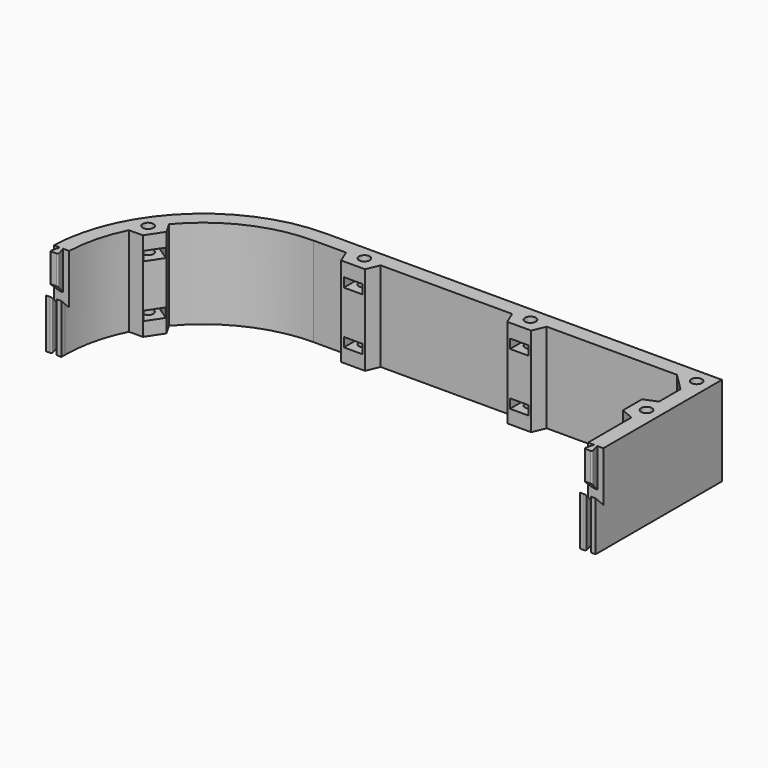
from build123d import *

# Parameters (mm, degrees)
PAD_DEPTH           = 17.5
POCKET_DEPTH        = 215.001
SKETCH002_R         = 2.1
POCKET001_DEPTH     = 35.001
PAD001_DEPTH        = 15
POCKET002_DEPTH     = 19.9
CHAMFER_SIZE        = 3.74
FILLET_R            = 0.5
SKETCH005_W         = 7.2
SKETCH005_H         = 3.6
POCKET003_DEPTH     = 9.8
SKETCH006_W         = 7.2
SKETCH006_H         = 3.6
POCKET004_DEPTH     = 9.8
SKETCH007_W         = 7.2
SKETCH007_H         = 3.6
SKETCH007_W_2       = 7.1999999999
POCKET005_DEPTH     = 9.8
SKETCH008_W         = 7.2
SKETCH008_H         = 3.6
POCKET006_DEPTH     = 9.5
SKETCH009_W         = 220
SKETCH009_H         = 20
POCKET007_DEPTH     = 0.2
FILLET001_R         = 0.5
SKETCH010_R         = 2.1
PAD002_DEPTH        = 0.3
LINEARPATTERN_COUNT = 2
LINEARPATTERN_PITCH = 20.6
CHAMFER001_1_SIZE2  = 3.4
CHAMFER001_1_SIZE   = 1.96
CHAMFER001_2_SIZE2  = 3.4
CHAMFER001_2_SIZE   = 1.96
CHAMFER001_3_SIZE2  = 3.4
CHAMFER001_3_SIZE   = 1.96
CHAMFER001_4_SIZE2  = 3.4
CHAMFER001_4_SIZE   = 1.96
CHAMFER001_5_SIZE2  = 3.4
CHAMFER001_5_SIZE   = 1.96
CHAMFER001_6_SIZE2  = 3.4
CHAMFER001_6_SIZE   = 1.96
CHAMFER001_7_SIZE2  = 3.4
CHAMFER001_7_SIZE   = 1.96
CHAMFER001_8_SIZE2  = 3.4
CHAMFER001_8_SIZE   = 1.96
CHAMFER001_9_SIZE2  = 3.4
CHAMFER001_9_SIZE   = 1.96
CHAMFER001_10_SIZE2 = 3.4
CHAMFER001_10_SIZE  = 1.96
CHAMFER001_11_SIZE2 = 3.4
CHAMFER001_11_SIZE  = 1.96
CHAMFER001_12_SIZE2 = 3.4
CHAMFER001_12_SIZE  = 1.96
CHAMFER001_13_SIZE2 = 3.4
CHAMFER001_13_SIZE  = 1.96
CHAMFER001_14_SIZE2 = 3.4
CHAMFER001_14_SIZE  = 1.96
CHAMFER001_15_SIZE2 = 3.4
CHAMFER001_15_SIZE  = 1.96
CHAMFER001_16_SIZE2 = 3.4
CHAMFER001_16_SIZE  = 1.96
CHAMFER001_17_SIZE2 = 3.4
CHAMFER001_17_SIZE  = 1.96
CHAMFER001_18_SIZE2 = 3.4
CHAMFER001_18_SIZE  = 1.96
CHAMFER001_19_SIZE2 = 3.4
CHAMFER001_19_SIZE  = 1.96
CHAMFER001_20_SIZE2 = 3.4
CHAMFER001_20_SIZE  = 1.96


with BuildPart() as part:
    # Sketch → Pad (new body, symmetric)
    with BuildSketch(Plane.XY):
        with BuildLine():
            ThreePointArc((0, 60), (-60, 0), (0, -60))
            Line((155, -60), (0, -60))
            Line((155, 60), (155, -60))
            Line((0, 60), (155, 60))
        make_face()
        with BuildLine():
            ThreePointArc((0, 49), (-49, 0), (0, -49))
            Line((144, -49), (0, -49))
            Line((144, 49), (144, -49))
            Line((0, 49), (144, 49))
        make_face(mode=Mode.SUBTRACT)
    extrude(amount=PAD_DEPTH, both=True)

    # Sketch001 (on Face3 of Pad) → Pocket (cut, through all)
    with BuildSketch(Plane.YZ.offset(155)):
        Polygon((2, 17.5), (2, -2), (-2, 2), (-2, -17.5), (-60, -17.5), (-60, 17.5), align=None)
    extrude(amount=-POCKET_DEPTH, mode=Mode.SUBTRACT)

    # Sketch002 (on Face6 of Pocket) → Pocket001 (cut, through all)
    with BuildSketch(Plane.XY.offset(17.5)):
        with Locations((149.5, 54.5)):
            Circle(SKETCH002_R)
        with Locations((84.5, 54.5)):
            Circle(SKETCH002_R)
        with Locations((149.5, 30)):
            Circle(SKETCH002_R)
        with Locations((19.5, 54.5)):
            Circle(SKETCH002_R)
        with Locations((-45.5, 30)):
            Circle(SKETCH002_R)
        with BuildLine():
            ThreePointArc((0, 54), (-22.7157445757, 48.9897432977), (-41.216240577, 34.8887017915))
            Line((-41.216240577, 34.8887017915), (-38.6499449551, 30.4437473871))
            Line((-42.8726364739, 24.1366327763), (-38.6499449551, 30.4437473871))
            Line((-48.3055168508, 24.1366327763), (-42.8726364739, 24.1366327763))
            ThreePointArc((-48.3055168508, 24.1366327763), (-52.557101851, 12.3996389072), (-54, 0))
            Line((-54, -5), (-54, 0))
            Line((149, -5), (-54, -5))
            Line((149, 23.25), (149, -5))
            Line((144, 25.3210678119), (149, 23.25))
            Line((144, 34.6789321881), (144, 25.3210678119))
            Line((149, 36.75), (144, 34.6789321881))
            Line((149, 47.2218254069), (149, 36.75))
            Line((142.2218254069, 54), (149, 47.2218254069))
            Line((91.25, 54), (142.2218254069, 54))
            Line((89.1789321881, 49), (91.25, 54))
            Line((79.8210678119, 49), (89.1789321881, 49))
            Line((77.75, 54), (79.8210678119, 49))
            Line((26.25, 54), (77.75, 54))
            Line((24.1789321881, 49), (26.25, 54))
            Line((14.8210678119, 49), (24.1789321881, 49))
            Line((12.75, 54), (14.8210678119, 49))
            Line((0, 54), (12.75, 54))
        make_face()
    extrude(amount=-POCKET001_DEPTH, mode=Mode.SUBTRACT)

    # Sketch003 (on Face6 of Pocket001) → Pad001 (join)
    with BuildSketch(Plane.XY.offset(17.5)):
        Polygon((-57.6118479306, 2), (-58.6166574023, -1.75), (-55.3129502529, -1.75), (-56.3177597245, 2), align=None)
        Polygon((151.3548094716, 2), (150.35, -1.75), (153.65, -1.75), (152.6451905284, 2), align=None)
    extrude(amount=-PAD001_DEPTH)

    # Sketch004 (on Face2 of Pad001) → Pocket002 (cut)
    with BuildSketch(Plane(origin=(0, 0, -17.5), x_dir=(1, 0, 0), z_dir=(0, 0, -1))):
        Polygon((-57.6948606325, 2), (-56.2717967697, 2), (-55.2, -2), (-58.7666574023, -2), align=None)
        Polygon((152.7282032303, 2), (151.2717967697, 2), (150.2, -2), (153.8, -2), align=None)
    extrude(amount=-POCKET002_DEPTH, mode=Mode.SUBTRACT)

    # Chamfer
    chamfer_edges = [part.edges().sort_by_distance(p)[0] for p in [
        (-56.964804, -1.75, 2.5),
        (152, -1.75, 2.5),
    ]]
    chamfer(chamfer_edges, length=CHAMFER_SIZE)

    # Fillet
    fillet_edges = [part.edges().sort_by_distance(p)[0] for p in [
        (-58.616657, -1.75, 11.87),
        (-55.31295, -1.75, 11.87),
        (150.35, -1.75, 11.87),
        (153.65, -1.75, 11.87),
    ]]
    fillet(fillet_edges, radius=FILLET_R)

    # Sketch005 (on Face28 of Fillet) → Pocket003 (cut)
    with BuildSketch(Plane.XZ.offset(-49)):
        with Locations((19.5, 10.3)):
            Rectangle(SKETCH005_W, SKETCH005_H)
        with Locations((19.5, -10.3)):
            Rectangle(SKETCH005_W, SKETCH005_H)
        with Locations((84.5, 10.3)):
            Rectangle(SKETCH005_W, SKETCH005_H)
        with Locations((84.5, -10.3)):
            Rectangle(SKETCH005_W, SKETCH005_H)
    extrude(amount=-POCKET003_DEPTH, mode=Mode.SUBTRACT)

    # Sketch006 (on Face22 of Pocket003) → Pocket004 (cut)
    with BuildSketch(Plane(origin=(144, 0, 0), x_dir=(0, -1, 0), z_dir=(-1, 0, 0))):
        with Locations((-30, 10.3)):
            Rectangle(SKETCH006_W, SKETCH006_H)
        with Locations((-30, -10.3)):
            Rectangle(SKETCH006_W, SKETCH006_H)
    extrude(amount=-POCKET004_DEPTH, mode=Mode.SUBTRACT)

    # Sketch007 (on Face37 of Pocket004) → Pocket005 (cut)
    with BuildSketch(Plane(origin=(-40.7612907145, 27.2901900817, 0), x_dir=(0.5563362178, 0.8309572869, 0), z_dir=(0.8309572869, -0.5563362178, 0))):
        with Locations((0, 10.3)):
            Rectangle(SKETCH007_W, SKETCH007_H)
        with Locations((0, -10.3)):
            Rectangle(SKETCH007_W_2, SKETCH007_H)
    extrude(amount=-POCKET005_DEPTH, mode=Mode.SUBTRACT)

    # Sketch008 (on Face25 of Pocket005) → Pocket006 (cut)
    with BuildSketch(Plane(origin=(98.1109127035, 98.1109127035, 0), x_dir=(0.7071067812, -0.7071067812, 0), z_dir=(-0.7071067812, -0.7071067812, 0))):
        with Locations((67.1751442127, 10.3)):
            Rectangle(SKETCH008_W, SKETCH008_H)
        with Locations((67.1751442127, -10.3)):
            Rectangle(SKETCH008_W, SKETCH008_H)
    extrude(amount=-POCKET006_DEPTH, mode=Mode.SUBTRACT)

    # Sketch009 (on Face51 of Pocket006) → Pocket007 (cut)
    with BuildSketch(Plane.XZ.offset(2)):
        with Locations((49.89415, -7.8)):
            Rectangle(SKETCH009_W, SKETCH009_H)
    extrude(amount=-POCKET007_DEPTH, mode=Mode.SUBTRACT)

    # Fillet001
    fillet001_edges = [part.edges().sort_by_distance(p)[0] for p in [
        (152.781793, -1.8, -7.85),
        (151.218207, -1.8, -7.85),
        (-56.218207, -1.8, -7.85),
        (-57.74845, -1.8, -7.85),
    ]]
    fillet(fillet001_edges, radius=FILLET001_R)

    # Sketch010 (on Face86 of Fillet001) → Pad002 (join)
    with BuildSketch(Plane(origin=(0, 0, -8.5), x_dir=(1, 0, 0), z_dir=(0, 0, -1))):
        with Locations((149.5, -30)):
            Circle(SKETCH010_R)
        with Locations((149.5, -54.5)):
            Circle(SKETCH010_R)
        with Locations((84.5, -54.5)):
            Circle(SKETCH010_R)
        with Locations((19.5, -54.5)):
            Circle(SKETCH010_R)
        with Locations((-45.5, -30)):
            Circle(SKETCH010_R)
    pad002 = extrude(amount=-PAD002_DEPTH)

    # LinearPattern: Pad002 ×2
    with Locations(*[(0, 0, i * LINEARPATTERN_PITCH) for i in range(1, LINEARPATTERN_COUNT)]):
        add(pad002)

    # Chamfer001 1
    chamfer001_1_edges = [part.edges().sort_by_distance(p)[0] for p in [
        (-50.907483, 29.750839, -10.3),
    ]]
    chamfer001_1_side = part.faces().sort_by_distance((-46.835792, 27.024791, -10.3))[0]
    chamfer(chamfer001_1_edges, length=CHAMFER001_1_SIZE, length2=CHAMFER001_1_SIZE2, reference=chamfer001_1_side)

    # Chamfer001 2
    chamfer001_2_edges = [part.edges().sort_by_distance(p)[0] for p in [
        (-46.901862, 35.733731, -10.3),
    ]]
    chamfer001_2_side = part.faces().sort_by_distance((-42.830171, 33.007684, -10.3))[0]
    chamfer(chamfer001_2_edges, length=CHAMFER001_2_SIZE, length2=CHAMFER001_2_SIZE2, reference=chamfer001_2_side)

    # Chamfer001 3
    chamfer001_3_edges = [part.edges().sort_by_distance(p)[0] for p in [
        (-46.901862, 35.733731, 10.3),
    ]]
    chamfer001_3_side = part.faces().sort_by_distance((-42.830171, 33.007684, 10.3))[0]
    chamfer(chamfer001_3_edges, length=CHAMFER001_3_SIZE, length2=CHAMFER001_3_SIZE2, reference=chamfer001_3_side)

    # Chamfer001 4
    chamfer001_4_edges = [part.edges().sort_by_distance(p)[0] for p in [
        (-50.907483, 29.750839, 10.3),
    ]]
    chamfer001_4_side = part.faces().sort_by_distance((-46.835792, 27.024791, 10.3))[0]
    chamfer(chamfer001_4_edges, length=CHAMFER001_4_SIZE, length2=CHAMFER001_4_SIZE2, reference=chamfer001_4_side)

    # Chamfer001 5
    chamfer001_5_edges = [part.edges().sort_by_distance(p)[0] for p in [
        (15.9, 58.8, 10.3),
    ]]
    chamfer001_5_side = part.faces().sort_by_distance((15.9, 53.9, 10.3))[0]
    chamfer(chamfer001_5_edges, length=CHAMFER001_5_SIZE, length2=CHAMFER001_5_SIZE2, reference=chamfer001_5_side)

    # Chamfer001 6
    chamfer001_6_edges = [part.edges().sort_by_distance(p)[0] for p in [
        (23.1, 58.8, 10.3),
    ]]
    chamfer001_6_side = part.faces().sort_by_distance((23.1, 53.9, 10.3))[0]
    chamfer(chamfer001_6_edges, length=CHAMFER001_6_SIZE, length2=CHAMFER001_6_SIZE2, reference=chamfer001_6_side)

    # Chamfer001 7
    chamfer001_7_edges = [part.edges().sort_by_distance(p)[0] for p in [
        (15.9, 58.8, -10.3),
    ]]
    chamfer001_7_side = part.faces().sort_by_distance((15.9, 53.9, -10.3))[0]
    chamfer(chamfer001_7_edges, length=CHAMFER001_7_SIZE, length2=CHAMFER001_7_SIZE2, reference=chamfer001_7_side)

    # Chamfer001 8
    chamfer001_8_edges = [part.edges().sort_by_distance(p)[0] for p in [
        (23.1, 58.8, -10.3),
    ]]
    chamfer001_8_side = part.faces().sort_by_distance((23.1, 53.9, -10.3))[0]
    chamfer(chamfer001_8_edges, length=CHAMFER001_8_SIZE, length2=CHAMFER001_8_SIZE2, reference=chamfer001_8_side)

    # Chamfer001 9
    chamfer001_9_edges = [part.edges().sort_by_distance(p)[0] for p in [
        (80.9, 58.8, 10.3),
    ]]
    chamfer001_9_side = part.faces().sort_by_distance((80.9, 53.9, 10.3))[0]
    chamfer(chamfer001_9_edges, length=CHAMFER001_9_SIZE, length2=CHAMFER001_9_SIZE2, reference=chamfer001_9_side)

    # Chamfer001 10
    chamfer001_10_edges = [part.edges().sort_by_distance(p)[0] for p in [
        (88.1, 58.8, 10.3),
    ]]
    chamfer001_10_side = part.faces().sort_by_distance((88.1, 53.9, 10.3))[0]
    chamfer(chamfer001_10_edges, length=CHAMFER001_10_SIZE, length2=CHAMFER001_10_SIZE2, reference=chamfer001_10_side)

    # Chamfer001 11
    chamfer001_11_edges = [part.edges().sort_by_distance(p)[0] for p in [
        (80.9, 58.8, -10.3),
    ]]
    chamfer001_11_side = part.faces().sort_by_distance((80.9, 53.9, -10.3))[0]
    chamfer(chamfer001_11_edges, length=CHAMFER001_11_SIZE, length2=CHAMFER001_11_SIZE2, reference=chamfer001_11_side)

    # Chamfer001 12
    chamfer001_12_edges = [part.edges().sort_by_distance(p)[0] for p in [
        (88.1, 58.8, -10.3),
    ]]
    chamfer001_12_side = part.faces().sort_by_distance((88.1, 53.9, -10.3))[0]
    chamfer(chamfer001_12_edges, length=CHAMFER001_12_SIZE, length2=CHAMFER001_12_SIZE2, reference=chamfer001_12_side)

    # Chamfer001 13
    chamfer001_13_edges = [part.edges().sort_by_distance(p)[0] for p in [
        (149.782843, 59.874012, 10.3),
    ]]
    chamfer001_13_side = part.faces().sort_by_distance((146.424086, 56.515254, 10.3))[0]
    chamfer(chamfer001_13_edges, length=CHAMFER001_13_SIZE, length2=CHAMFER001_13_SIZE2, reference=chamfer001_13_side)

    # Chamfer001 14
    chamfer001_14_edges = [part.edges().sort_by_distance(p)[0] for p in [
        (154.874012, 54.782843, 10.3),
    ]]
    chamfer001_14_side = part.faces().sort_by_distance((151.515254, 51.424086, 10.3))[0]
    chamfer(chamfer001_14_edges, length=CHAMFER001_14_SIZE, length2=CHAMFER001_14_SIZE2, reference=chamfer001_14_side)

    # Chamfer001 15
    chamfer001_15_edges = [part.edges().sort_by_distance(p)[0] for p in [
        (154.874012, 54.782843, -10.3),
    ]]
    chamfer001_15_side = part.faces().sort_by_distance((151.515254, 51.424086, -10.3))[0]
    chamfer(chamfer001_15_edges, length=CHAMFER001_15_SIZE, length2=CHAMFER001_15_SIZE2, reference=chamfer001_15_side)

    # Chamfer001 16
    chamfer001_16_edges = [part.edges().sort_by_distance(p)[0] for p in [
        (149.782843, 59.874012, -10.3),
    ]]
    chamfer001_16_side = part.faces().sort_by_distance((146.424086, 56.515254, -10.3))[0]
    chamfer(chamfer001_16_edges, length=CHAMFER001_16_SIZE, length2=CHAMFER001_16_SIZE2, reference=chamfer001_16_side)

    # Chamfer001 17
    chamfer001_17_edges = [part.edges().sort_by_distance(p)[0] for p in [
        (153.8, 33.6, 10.3),
    ]]
    chamfer001_17_side = part.faces().sort_by_distance((148.9, 33.6, 10.3))[0]
    chamfer(chamfer001_17_edges, length=CHAMFER001_17_SIZE, length2=CHAMFER001_17_SIZE2, reference=chamfer001_17_side)

    # Chamfer001 18
    chamfer001_18_edges = [part.edges().sort_by_distance(p)[0] for p in [
        (153.8, 33.6, -10.3),
    ]]
    chamfer001_18_side = part.faces().sort_by_distance((148.9, 33.6, -10.3))[0]
    chamfer(chamfer001_18_edges, length=CHAMFER001_18_SIZE, length2=CHAMFER001_18_SIZE2, reference=chamfer001_18_side)

    # Chamfer001 19
    chamfer001_19_edges = [part.edges().sort_by_distance(p)[0] for p in [
        (153.8, 26.4, -10.3),
    ]]
    chamfer001_19_side = part.faces().sort_by_distance((148.9, 26.4, -10.3))[0]
    chamfer(chamfer001_19_edges, length=CHAMFER001_19_SIZE, length2=CHAMFER001_19_SIZE2, reference=chamfer001_19_side)

    # Chamfer001 20
    chamfer001_20_edges = [part.edges().sort_by_distance(p)[0] for p in [
        (153.8, 26.4, 10.3),
    ]]
    chamfer001_20_side = part.faces().sort_by_distance((148.9, 26.4, 10.3))[0]
    chamfer(chamfer001_20_edges, length=CHAMFER001_20_SIZE, length2=CHAMFER001_20_SIZE2, reference=chamfer001_20_side)


solid = part.part
